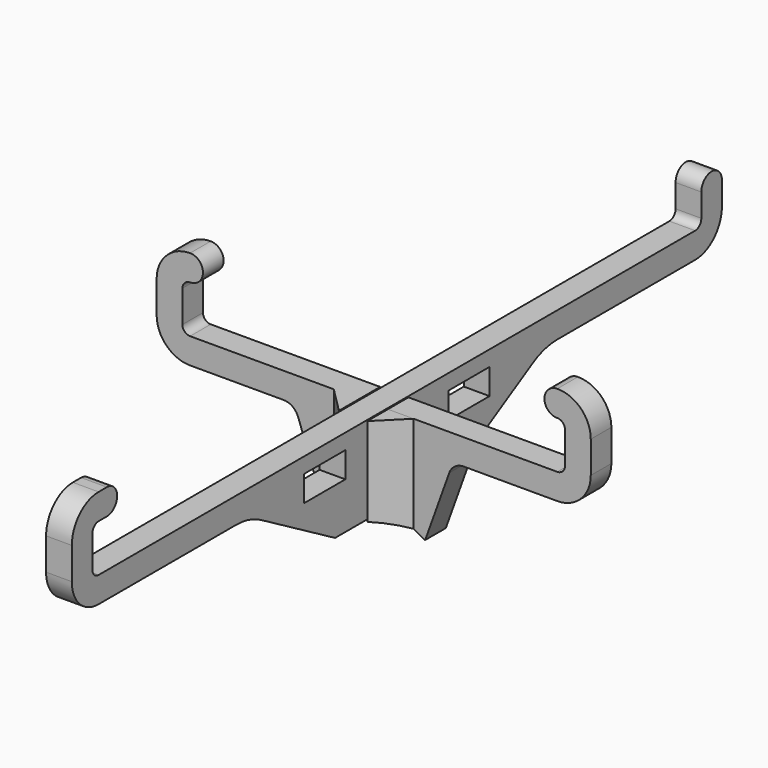
from build123d import *

# Parameters (mm, degrees)
SKETCH_W     = 10
SKETCH_H     = 5
PAD_DEPTH    = 2.5
PAD001_DEPTH = 2.5
PAD002_DEPTH = 20
POCKET_DEPTH = 10


with BuildPart() as vertical:
    # Sketch → Pad (new body, symmetric)
    with BuildSketch(Plane.YZ):
        with BuildLine():
            Line((78.9, 18.499999), (78.9, 22.999996))
            ThreePointArc((78.9, 22.999996), (76.400002, 25.499995), (73.9, 23))
            Line((73.9, 18.499991), (73.9, 23))
            ThreePointArc((72.4, 17), (73.460657, 17.439337), (73.9, 18.499991))
            Line((-72.4, 17), (72.4, 17))
            ThreePointArc((-73.9, 18.499991), (-73.460657, 17.439336), (-72.4, 17))
            Line((-73.9, 24.700009), (-73.9, 18.499991))
            ThreePointArc((-72.4, 26.2), (-73.460657, 25.760664), (-73.9, 24.700009))
            Line((-72.4, 26.2), (-70.4, 26.2))
            ThreePointArc((-70.4, 26.2), (-67.9, 28.7), (-70.4, 31.2))
            Line((-70.4, 31.2), (-72.400018, 31.2))
            ThreePointArc((-72.400018, 31.2), (-76.996199, 29.296189), (-78.9, 24.700004))
            Line((-78.9, 18.499991), (-78.9, 24.700004))
            ThreePointArc((-78.9, 18.499991), (-76.996183, 13.903795), (-72.399977, 12))
            Line((-72.399977, 12), (-38.979663, 12))
            ThreePointArc((-33, 10.392302), (-35.883655, 11.591063), (-38.979663, 12))
            Line((-15, 0), (-33, 10.392302))
            Line((-15, 0), (-2.75, 0))
            Line((-2.75, 0), (-2.75, 8.7))
            Line((-2.75, 8.7), (2.75, 8.7))
            Line((2.75, 8.7), (2.75, 0))
            Line((2.75, 0), (15, 0))
            Line((15, 0), (33, 10.392302))
            ThreePointArc((38.979663, 12), (35.883655, 11.591063), (33, 10.392302))
            Line((38.979663, 12), (72.4, 12))
            ThreePointArc((72.4, 12), (76.996194, 13.903806), (78.9, 18.499999))
        make_face()
        with Locations((-17.5, 11.5)):
            Rectangle(SKETCH_W, SKETCH_H, mode=Mode.SUBTRACT)
        with Locations((17.5, 11.5)):
            Rectangle(SKETCH_W, SKETCH_H, mode=Mode.SUBTRACT)
    extrude(amount=PAD_DEPTH, both=True)


with BuildPart() as fusion:
    # Sketch001 → Pad001 (new body, symmetric)
    with BuildSketch(Plane.XZ):
        with BuildLine():
            Line((17.5, 12.000015), (35.649994, 12))
            ThreePointArc((35.649994, 12), (40.246192, 13.903804), (42.15, 18.500001))
            Line((42.15, 24.700029), (42.15, 18.500001))
            ThreePointArc((42.15, 24.700029), (40.246194, 29.296224), (35.649999, 31.20003))
            ThreePointArc((35.649999, 31.20003), (33.149999, 28.70003), (35.649999, 26.20003))
            ThreePointArc((37.15, 24.700029), (36.71066, 25.76069), (35.649999, 26.20003))
            Line((37.15, 18.500001), (37.15, 24.700029))
            ThreePointArc((35.649999, 17), (36.71066, 17.43934), (37.15, 18.500001))
            Line((2.75, 17), (35.649999, 17))
            Line((2.75, 8.3), (2.75, 17))
            Line((-2.75, 8.3), (2.75, 8.3))
            Line((-2.75, 17.000015), (-2.75, 8.3))
            Line((-35.65, 17.000015), (-2.75, 17.000015))
            ThreePointArc((-37.15, 18.500001), (-36.710655, 17.43935), (-35.65, 17.000015))
            Line((-37.15, 18.500001), (-37.15, 24.700029))
            ThreePointArc((-35.649999, 26.200015), (-36.710655, 25.76068), (-37.15, 24.700029))
            ThreePointArc((-35.649999, 26.200015), (-33.149999, 28.700015), (-35.649999, 31.200015))
            ThreePointArc((-35.649999, 31.200015), (-40.246189, 29.296214), (-42.15, 24.700029))
            Line((-42.15, 24.700029), (-42.15, 18.500001))
            ThreePointArc((-42.15, 18.500001), (-40.246189, 13.903816), (-35.649999, 12.000015))
            Line((-35.649999, 12.000015), (-17.5, 12.000015))
            ThreePointArc((-14.676752, 10.014544), (-15.774252, 11.453949), (-17.5, 12.000015))
            Line((-14.676752, 10.014544), (-10, -3))
            Line((-10, -3), (10, -3))
            Line((10, -3), (14.676749, 10.014543))
            ThreePointArc((17.5, 12.000015), (15.77425, 11.45395), (14.676749, 10.014543))
        make_face()
    extrude(amount=PAD001_DEPTH, both=True)

    # Sketch002 → Pad002 (new body)
    with BuildSketch(Plane(origin=(0, 0, 17.000015), x_dir=(-1, 0, 0), z_dir=(0, 0, 1))):
        Polygon((-7.75, 2.5), (-2.75, 7.5), (-2.75, 2.5), align=None)
        Polygon((2.75, 7.5), (2.75, 2.5), (7.75, 2.5), align=None)
    extrude(amount=-PAD002_DEPTH)

    # Sketch003 → Pocket (cut)
    with BuildSketch(Plane(origin=(0, 2.5, 0), x_dir=(1, 0, 0), z_dir=(0, 1, 0))):
        with BuildLine():
            ThreePointArc((-10, 3.138593), (0, 0), (10, 3.138593))
            Line((-10, 3.138593), (10, 3.138593))
        make_face()
    extrude(amount=-POCKET_DEPTH, mode=Mode.SUBTRACT)

    # Fusion: union Vertical
    add(vertical.part)


solid = fusion.part
